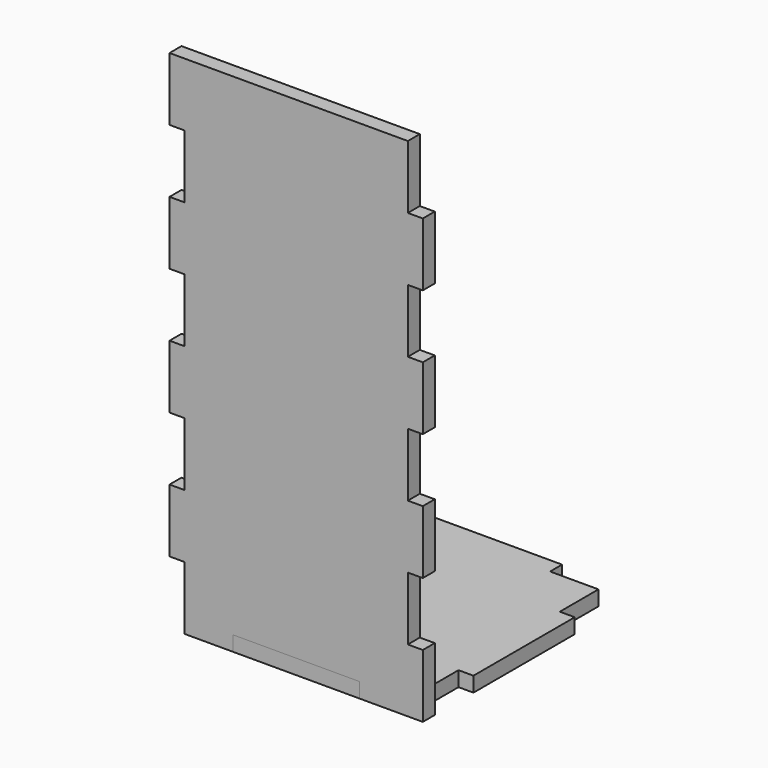
from build123d import *

# Parameters (mm, degrees)
F2_DEPTH = 3
F3_W     = 3
F3_H     = 12.7
F4_DEPTH = 3


with BuildPart() as f2:
    # F1 (on Top) → F2 (new body)
    with BuildSketch(Plane.XY):
        Polygon((12.7, 22.4), (12.7, 25.4), (-12.7, 25.4), (-12.7, 22.4), (-22.4, 22.4), (-22.4, 12.7), (-25.4, 12.7), (-25.4, -12.7), (-22.4, -12.7), (-22.4, -22.4), (-12.7, -22.4), (-12.7, -25.4), (12.7, -25.4), (12.7, -22.4), (22.4, -22.4), (22.4, -12.7), (25.4, -12.7), (25.4, 12.7), (22.4, 12.7), (22.4, 22.4), align=None)
    extrude(amount=F2_DEPTH)


with BuildPart() as f4:
    # F3 (on face) → F4 (new body)
    with BuildSketch(Plane.XZ.offset(25.4)):
        Polygon((-22.4, 12.7), (-22.4, 0), (-12.7, 0), (-12.7, 3), (12.7, 3), (12.7, 0), (22.4, 0), (22.4, 12.7), (22.4, 25.4), (22.4, 38.1), (22.4, 50.8), (22.4, 63.5), (22.4, 76.2), (22.4, 88.9), (22.4, 101.6), (-22.4, 101.6), (-22.4, 88.9), (-22.4, 76.2), (-22.4, 63.5), (-22.4, 50.8), (-22.4, 38.1), (-22.4, 25.4), align=None)
        with Locations((23.9, 6.35)):
            Rectangle(F3_W, F3_H)
        with Locations((23.9, 31.75)):
            Rectangle(F3_W, F3_H)
        with Locations((23.9, 57.15)):
            Rectangle(F3_W, F3_H)
        with Locations((23.9, 82.55)):
            Rectangle(F3_W, F3_H)
        with Locations((-23.9, 19.05)):
            Rectangle(F3_W, F3_H)
        with Locations((-23.9, 44.45)):
            Rectangle(F3_W, F3_H)
        with Locations((-23.9, 69.85)):
            Rectangle(F3_W, F3_H)
        with Locations((-23.9, 95.25)):
            Rectangle(F3_W, F3_H)
    extrude(amount=-F4_DEPTH)


solid = Compound([f2.part, f4.part])
